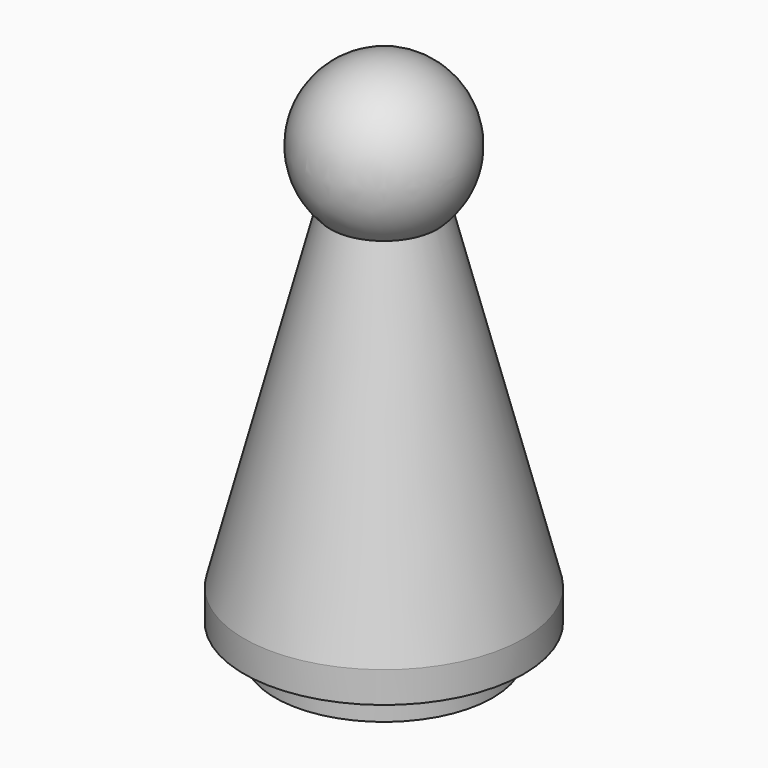
from build123d import *

# Parameters (mm, degrees)
F0_R      = 7
F1_DEPTH  = 2
F2_R      = 9
F3_DEPTH  = 2
F3_FACE_R = 9
F5_R      = 2.5


with BuildPart() as f1:
    # F0 (on Top) → F1 (new body)
    with BuildSketch(Plane.XY):
        Circle(F0_R)
    extrude(amount=F1_DEPTH)

    # F2 (on face) → F3 (join)
    with BuildSketch(Plane.XY.offset(2)):
        Circle(F2_R)
    extrude(amount=F3_DEPTH)

    # F3_face (on face) → F6 section 0
    with BuildSketch(Plane.XY.offset(4)):
        Circle(F3_FACE_R)
    # F5 (on offset) → F6 section 1
    with BuildSketch(Plane.XY.offset(29)):
        Circle(F5_R)
    loft()

    # F7 (on face) → F8 (revolve)
    with BuildSketch(Plane.XY.offset(29)):
        with BuildLine():
            Line((-2.5, 0), (2.5, 0))
            ThreePointArc((2.5, 0), (0, 2.5), (-2.5, 0))
        make_face()
        with BuildLine():
            ThreePointArc((-5, 0), (0, -5), (5, 0))
            Line((5, 0), (2.5, 0))
            ThreePointArc((2.5, 0), (0, -2.5), (-2.5, 0))
            Line((-2.5, 0), (-5, 0))
        make_face()
    revolve(axis=Axis((0, 0, 29), (1, 0, 0)))


solid = f1.part
